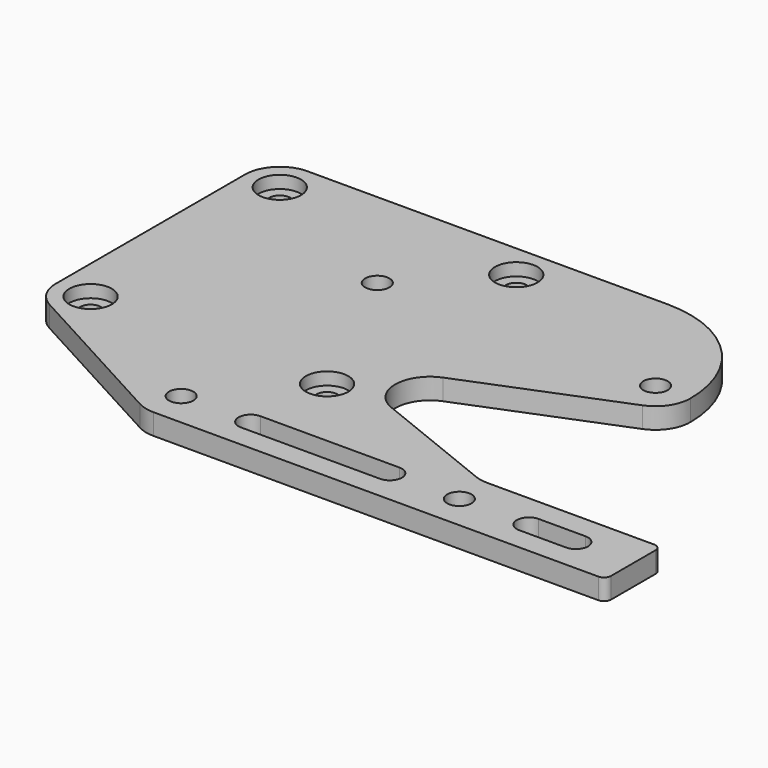
from build123d import *

# Parameters (mm, degrees)
SKETCH006_R             = 1.5
SKETCH006_R_2           = 1.75
PAD002_DEPTH            = 3
FILLET_R                = 1
SKETCH_R                = 3.05
POCKET_DEPTH            = 1.8
BODY001_PLACEMENT_ANGLE = 180


with BuildPart() as part:
    # Sketch006 → Pad002 (new body)
    with BuildSketch(Plane.XY):
        with BuildLine():
            Line((5, 0), (56.76, 0))
            ThreePointArc((56.76, 0), (68.285841, 4.774159), (73.06, 16.3))
            ThreePointArc((73.06, 16.3), (72.202439, 19.100036), (69.92392, 20.939591))
            Line((48.183063, 29.673815), (69.92392, 20.939591))
            ThreePointArc((48.183063, 38.952996), (45.046983, 34.313406), (48.183063, 29.673815))
            Line((48.183063, 38.952996), (66.196084, 46.189591))
            ThreePointArc((68.060005, 46.55), (67.110782, 46.459071), (66.196084, 46.189591))
            Line((68.060005, 46.55), (93.060005, 46.55))
            Line((93.060005, 51.55), (93.060005, 46.55))
            Line((93.060005, 56.55), (93.060005, 51.55))
            Line((93.060005, 56.55), (28.06, 56.55))
            ThreePointArc((28.06, 56.55), (26.826846, 56.395547), (25.669877, 55.941732))
            Line((2.609877, 43.391732), (25.669877, 55.941732))
            ThreePointArc((2.609877, 43.391732), (0.701709, 41.554348), (0, 39))
            Line((0, 39), (0, 5))
            ThreePointArc((0, 5), (1.464466, 1.464466), (5, 0))
        make_face()
        with Locations((5, 5)):
            Circle(SKETCH006_R, mode=Mode.SUBTRACT)
        with Locations((39, 5)):
            Circle(SKETCH006_R, mode=Mode.SUBTRACT)
        with Locations((39, 39)):
            Circle(SKETCH006_R, mode=Mode.SUBTRACT)
        with Locations((5, 39)):
            Circle(SKETCH006_R, mode=Mode.SUBTRACT)
        with Locations((28.06, 51.55)):
            Circle(SKETCH006_R_2, mode=Mode.SUBTRACT)
        with Locations((68.06, 51.55)):
            Circle(SKETCH006_R_2, mode=Mode.SUBTRACT)
        with Locations((68.06, 16.3)):
            Circle(SKETCH006_R_2, mode=Mode.SUBTRACT)
        with Locations((28.06, 16.3)):
            Circle(SKETCH006_R_2, mode=Mode.SUBTRACT)
        with BuildLine():
            ThreePointArc((38.06, 53.3), (36.31, 51.55), (38.06, 49.8))
            Line((38.06, 49.8), (58.06, 49.8))
            ThreePointArc((58.06, 49.8), (59.81, 51.55), (58.06, 53.3))
            Line((38.06, 53.3), (58.06, 53.3))
        make_face(mode=Mode.SUBTRACT)
        with BuildLine():
            ThreePointArc((78.06, 53.3), (76.31, 51.55), (78.06, 49.8))
            Line((78.06, 49.8), (84.810005, 49.8))
            ThreePointArc((84.810005, 49.8), (86.560005, 51.55), (84.810005, 53.3))
            Line((78.06, 53.3), (84.810005, 53.3))
        make_face(mode=Mode.SUBTRACT)
    extrude(amount=PAD002_DEPTH)

    # Fillet
    fillet_edges = [part.edges().sort_by_distance(p)[0] for p in [
        (93.060005, 46.55, 1.5),
        (93.060005, 56.55, 1.5),
    ]]
    fillet(fillet_edges, radius=FILLET_R)

    # Sketch (on Face2 of Fillet) → Pocket (cut)
    with BuildSketch(Plane(origin=(0, 0, 0), x_dir=(1, 0, 0), z_dir=(0, 0, -1))):
        with Locations((5, -5)):
            Circle(SKETCH_R)
        with Locations((39, -5)):
            Circle(SKETCH_R)
        with Locations((39, -39)):
            Circle(SKETCH_R)
        with Locations((5, -39)):
            Circle(SKETCH_R)
    extrude(amount=-POCKET_DEPTH, mode=Mode.SUBTRACT)


with BuildPart() as part_1:
    # Body001 placement: moved
    add(part.part.moved(Location((0.94, 56.55, 3))).rotate(Axis((0.94, 56.55, 3), (1, 0, 0)), BODY001_PLACEMENT_ANGLE))


solid = part_1.part
